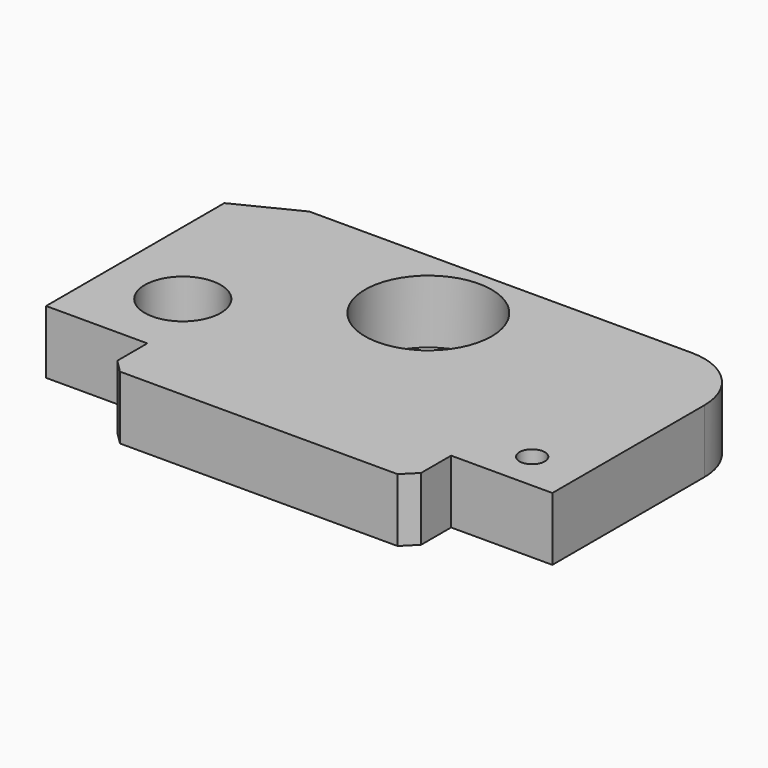
from build123d import *

# Parameters (mm, degrees)
F0_R     = 15
F0_R_2   = 5
F0_R_3   = 25
F1_DEPTH = 25


with BuildPart() as f1:
    # F0 (on Top) → F1 (new body)
    with BuildSketch(Plane.XY):
        with BuildLine():
            Line((-54.824, 0), (0, 0))
            Line((0, 0), (54.824, 0))
            Line((54.824, 0), (60, 5.17583))
            Line((60, 5.17583), (60, 20))
            Line((60, 20), (100, 20))
            Line((100, 20), (100, 35))
            Line((100, 35), (100, 95))
            ThreePointArc((100, 95), (92.67767, 112.67767), (75, 120))
            Line((75, 120), (-5, 120))
            Line((-5, 120), (-76, 120))
            Line((-76, 120), (-100, 108))
            Line((-100, 108), (-100, 20))
            Line((-100, 20), (-70, 20))
            Line((-70, 20), (-60, 20))
            Line((-60, 20), (-60, 5.176))
            Line((-60, 5.176), (-54.824, 0))
        make_face()
        with Locations((-70, 50)):
            Circle(F0_R, mode=Mode.SUBTRACT)
        with Locations((80, 35)):
            Circle(F0_R_2, mode=Mode.SUBTRACT)
        with Locations((-5, 90)):
            Circle(F0_R_3, mode=Mode.SUBTRACT)
    extrude(amount=F1_DEPTH)


solid = f1.part
